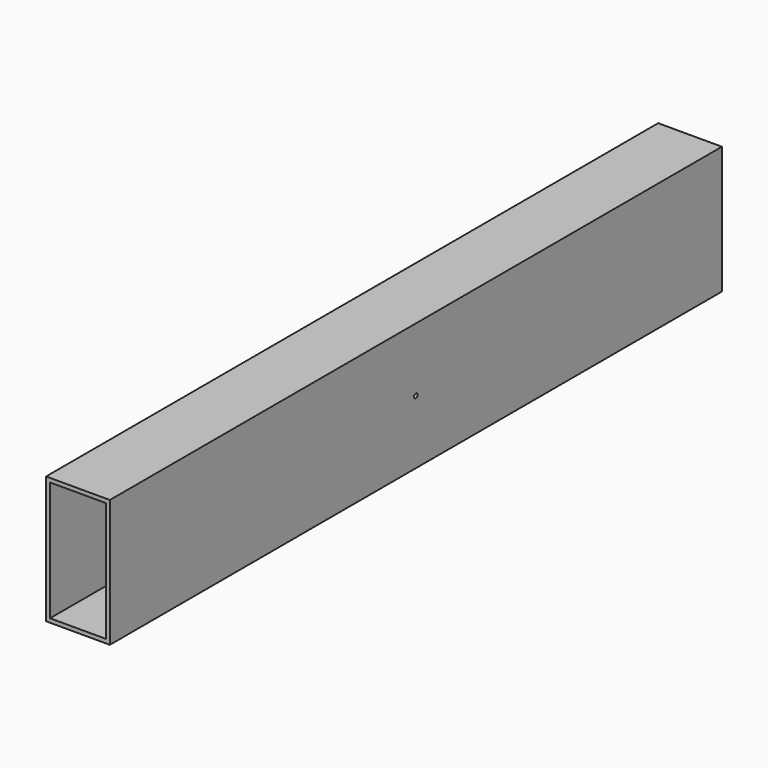
from build123d import *

# Parameters (mm, degrees)
F0_W     = 25.4
F0_H     = 50.8
F0_W_2   = 22.225
F0_H_2   = 47.625
F1_DEPTH = 304.8
F2_R     = 7.9375
F3_DEPTH = 1.5875
F4_R     = 0.889
F5_DEPTH = 1.5875


with BuildPart() as f1:
    # F0 (on Front) → F1 (new body)
    with BuildSketch(Plane.XZ):
        Rectangle(F0_W, F0_H)
        Rectangle(F0_W_2, F0_H_2, mode=Mode.SUBTRACT)
    extrude(amount=F1_DEPTH)

    # F2 (on face) → F3 (cut)
    with BuildSketch(Plane(origin=(-12.7, 0, 0), x_dir=(0, -1, 0), z_dir=(-1, 0, 0))):
        with Locations((152.4, 0)):
            Circle(F2_R)
    extrude(amount=-F3_DEPTH, mode=Mode.SUBTRACT)

    # F4 (on face) → F5 (cut)
    with BuildSketch(Plane.YZ.offset(12.7)):
        with Locations((-152.4, 0)):
            Circle(F4_R)
    extrude(amount=-F5_DEPTH, mode=Mode.SUBTRACT)


solid = f1.part
